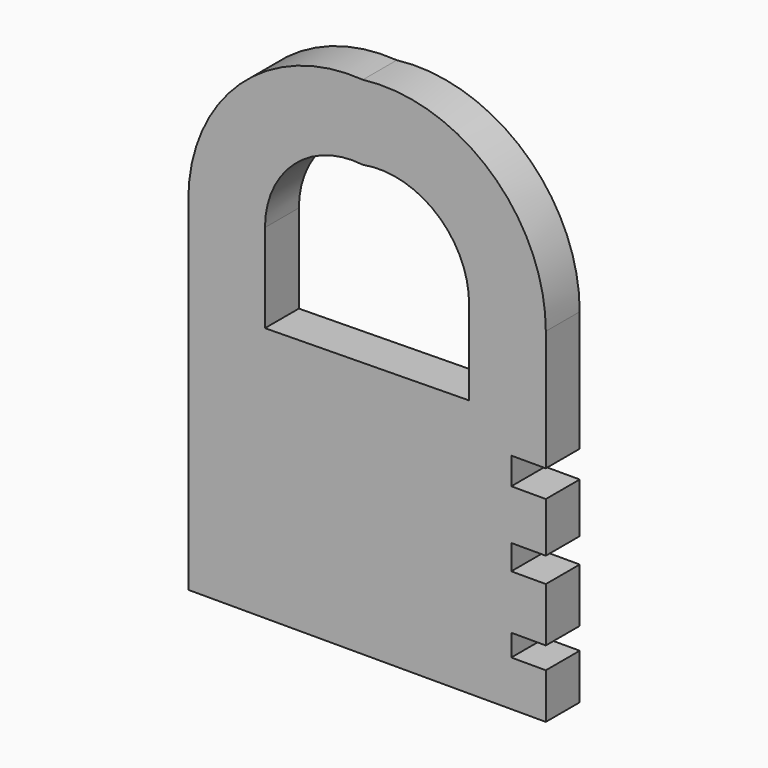
from build123d import *

# Parameters (mm, degrees)
F1_DEPTH = 6.35
F2_DEPTH = 12.7


with BuildPart() as f1:
    # F0 (on Front) → F1 (new body)
    with BuildSketch(Plane.XZ):
        Polygon((-29.3310899078, 53.6682253753), (-52.3154214025, 53.6682253753), (-52.3154214025, -22.5317746247), (54.824039946, -22.5317746247), (54.824039946, -8.9082447812), (44.4758199155, -8.9082447812), (44.4758199155, -2.3659907747), (54.824039946, -2.3659907747), (54.824039946, 13.8338748366), (44.4758199155, 13.8338748366), (44.4758199155, 21.3107354939), (54.824039946, 21.3107354939), (54.824039946, 36.2644605339), (44.4758199155, 36.2644605339), (44.4758199155, 44.3643927574), (54.824039946, 44.3643927574), (54.824039946, 55.1141475241), (31.8397084513, 54.8039578557), (-29.3310899078, 53.9784150436), align=None)
    extrude(amount=F1_DEPTH)

    # F0 (on Front) → F2 (join)
    with BuildSketch(Plane.XZ):
        Polygon((-29.3310899078, 53.6682253753), (-52.3154214025, 53.6682253753), (-52.3154214025, -22.5317746247), (54.824039946, -22.5317746247), (54.824039946, -8.9082447812), (44.4758199155, -8.9082447812), (44.4758199155, -2.3659907747), (54.824039946, -2.3659907747), (54.824039946, 13.8338748366), (44.4758199155, 13.8338748366), (44.4758199155, 21.3107354939), (54.824039946, 21.3107354939), (54.824039946, 36.2644605339), (44.4758199155, 36.2644605339), (44.4758199155, 44.3643927574), (54.824039946, 44.3643927574), (54.824039946, 55.1141475241), (31.8397084513, 54.8039578557), (-29.3310899078, 53.9784150436), align=None)
        Polygon((-52.3154214025, 65.8902004361), (-52.3154214025, 53.6682253753), (-29.3310899078, 53.9784150436), (-29.3310899078, 80.5141475241), (-52.3154214025, 80.2039578557), align=None)
        Polygon((-29.3310899078, 53.9784150436), (-52.3154214025, 53.6682253753), (-29.3310899078, 53.6682253753), align=None)
        Polygon((31.8397084513, 80.2039578557), (31.8397084513, 54.8039578557), (54.824039946, 55.1141475241), (54.824039946, 80.5141475241), align=None)
        with BuildLine():
            Line((-52.3154214025, 80.2039578557), (-29.3310899078, 80.5141475241))
            ThreePointArc((-29.3310899078, 80.5141475241), (-20.5215844856, 100.1447961764), (0, 106.6127419472))
            Line((0, 106.6127419472), (0, 129.0534651811))
            ThreePointArc((0, 129.0534651811), (-36.7683139969, 115.9921461392), (-52.3154214025, 80.2039578557))
        make_face()
        with BuildLine():
            ThreePointArc((0, 106.6127419472), (22.12305543, 100.8872295472), (31.8397084513, 80.2039578557))
            Line((31.8397084513, 80.2039578557), (54.824039946, 80.5141475241))
            ThreePointArc((54.824039946, 80.5141475241), (38.3394632715, 117.1261015644), (0, 129.0534651811))
            Line((0, 129.0534651811), (0, 106.6127419472))
        make_face()
    extrude(amount=F2_DEPTH)


solid = f1.part
